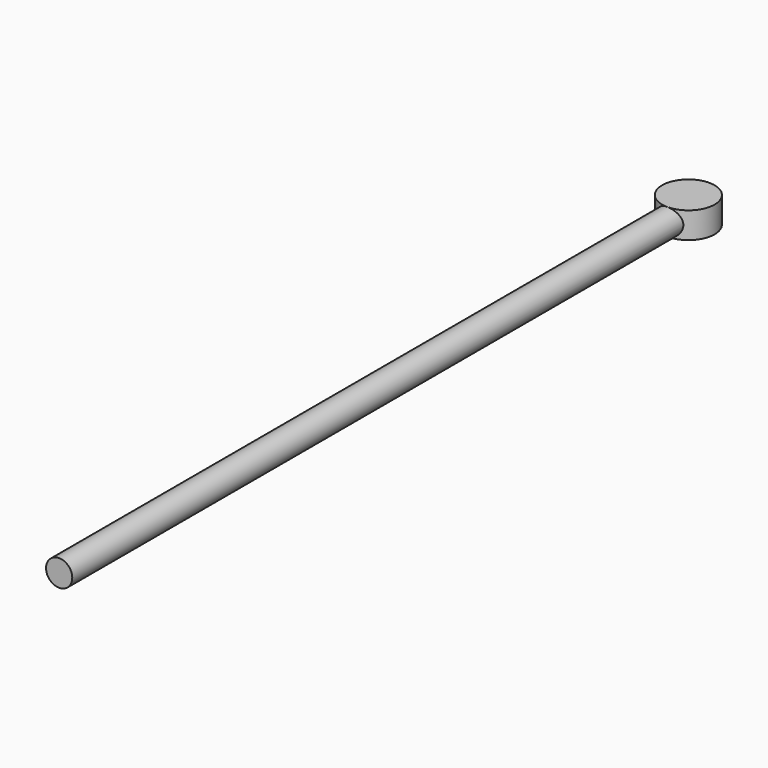
from build123d import *

# Parameters (mm, degrees)
F0_R     = 2.5
F1_DEPTH = 150
F2_R     = 5
F3_DEPTH = 2.5


with BuildPart() as f1:
    # F0 (on Front) → F1 (new body)
    with BuildSketch(Plane.XZ):
        Circle(F0_R)
    extrude(amount=F1_DEPTH)

    # F2 (on Top) → F3 (join, symmetric)
    with BuildSketch(Plane.XY):
        Circle(F2_R)
    extrude(amount=F3_DEPTH, both=True)


solid = f1.part
